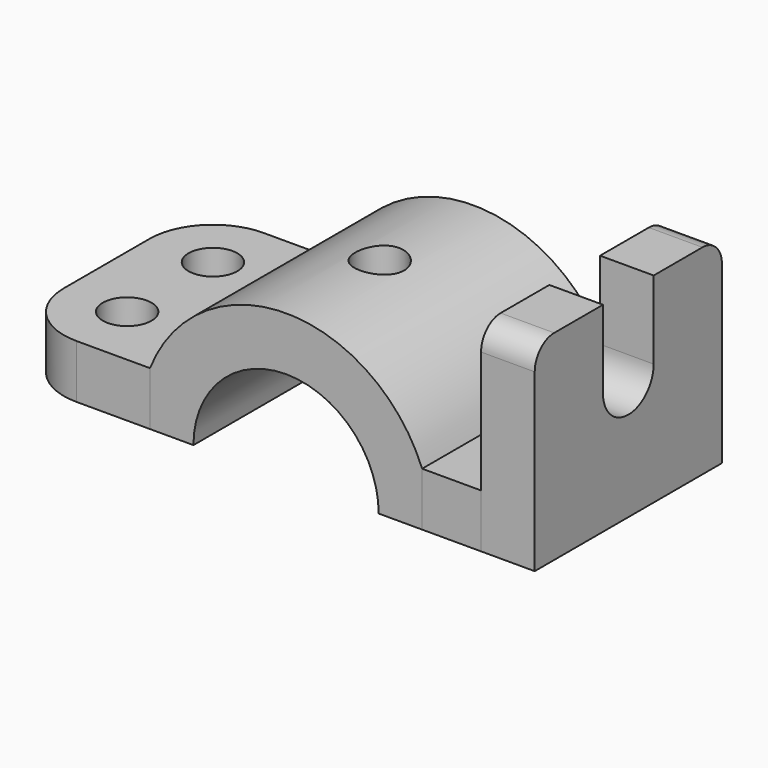
from build123d import *

# Parameters (mm, degrees)
F1_W      = 53.071484662
F1_H      = 1219.2
F3_DEPTH  = 279.4
F1_W_2    = 279.4
F1_H_2    = 444.5
F1_H_3    = 330.2
F4_DEPTH  = 1041.4
F1_W_3    = 1417.857030676
F1_R      = 127
F5_DEPTH  = 762
F6_DEPTH  = 279.4
F7_DEPTH  = 15240
F9_DEPTH  = 139700
F11_DEPTH = 279.4


with BuildPart() as f3:
    # F1 (on Top) → F3 (new body)
    with BuildSketch(Plane.XY):
        Polygon((914.4, 165.1), (914.4, 609.6), (660.4, 609.6), (660.4, -609.6), (914.4, -609.6), (914.4, -165.1), align=None)
        with Locations((633.864257669, 0)):
            Rectangle(F1_W, F1_H)
    extrude(amount=F3_DEPTH)


with BuildPart() as f4:
    # F1 (on Top) → F4 (new body)
    with BuildSketch(Plane.XY):
        with Locations((1054.1, 387.35)):
            Rectangle(F1_W_2, F1_H_2)
        with Locations((1054.1, 0)):
            Rectangle(F1_W_2, F1_H_3)
        with Locations((1054.1, -387.35)):
            Rectangle(F1_W_2, F1_H_2)
    extrude(amount=F4_DEPTH)

    # F10 (on offset) → F11 (cut)
    with BuildSketch(Plane.YZ.offset(1193.8)):
        with BuildLine():
            Line((-609.6, 1041.4), (-609.6, 914.4))
            ThreePointArc((-609.6, 914.4), (-572.4025612107, 1004.2025612107), (-482.6, 1041.4))
            Line((-482.6, 1041.4), (-609.6, 1041.4))
        make_face()
        with BuildLine():
            ThreePointArc((482.6, 1041.4), (572.4025612107, 1004.2025612107), (609.6, 914.4))
            Line((609.6, 914.4), (609.6, 1041.4))
            Line((609.6, 1041.4), (482.6, 1041.4))
        make_face()
        with BuildLine():
            Line((165.1, 1041.4), (-165.1, 1041.4))
            Line((-165.1, 1041.4), (-165.1, 635))
            ThreePointArc((-165.1, 635), (0, 469.9), (165.1, 635))
            Line((165.1, 635), (165.1, 1041.4))
        make_face()
    extrude(amount=-F11_DEPTH, mode=Mode.SUBTRACT)


with BuildPart() as f5:
    # F1 (on Top) → F5 (new body)
    with BuildSketch(Plane.XY):
        with Locations((-101.6, 0)):
            Rectangle(F1_W_3, F1_H)
        with Locations((-101.6, 0)):
            Circle(F1_R, mode=Mode.SUBTRACT)
    extrude(amount=F5_DEPTH)

    # F2 (on Front) → F7 (cut, symmetric)
    with BuildSketch(Plane.XZ):
        with BuildLine():
            Line((-101.6, 0), (381, 0))
            ThreePointArc((381, 0), (239.6497326006, 341.2497326006), (-101.6, 482.6))
            Line((-101.6, 482.6), (-101.6, 0))
        make_face()
        with BuildLine():
            Line((-101.6, 0), (-101.6, 482.6))
            ThreePointArc((-101.6, 482.6), (-442.8497326006, 341.2497326006), (-584.2, 0))
            Line((-584.2, 0), (-101.6, 0))
        make_face()
        with BuildLine():
            ThreePointArc((-584.2, 0), (-101.6, -482.6), (381, 0))
            Line((381, 0), (-101.6, 0))
            Line((-101.6, 0), (-584.2, 0))
        make_face()
    extrude(amount=F7_DEPTH, both=True, mode=Mode.SUBTRACT)

    # F8 (on Front) → F9 (cut, symmetric)
    with BuildSketch(Plane.XZ):
        with BuildLine():
            ThreePointArc((-810.528515338, 279.4), (-530.4013543659, 629.8995144889), (-101.6000044108, 761.9999999077))
            Line((-101.6000044108, 762), (-810.528515338, 762))
            Line((-810.528515338, 762), (-810.528515338, 279.4))
        make_face()
        with BuildLine():
            ThreePointArc((-101.6000044108, 761.9999999077), (327.2013507198, 629.8995169709), (607.328515338, 279.4))
            Line((607.328515338, 279.4), (607.328515338, 762))
            Line((607.328515338, 762), (-101.6000044108, 762))
        make_face()
    extrude(amount=F9_DEPTH, both=True, mode=Mode.SUBTRACT)


with BuildPart() as f6:
    # F1 (on Top) → F6 (new body)
    with BuildSketch(Plane.XY):
        with BuildLine():
            Line((-810.528515338, -609.6), (-810.528515338, 609.6))
            Line((-810.528515338, 609.6), (-1193.8, 609.6))
            ThreePointArc((-1193.8, 609.6), (-1427.2866591478, 512.8866591478), (-1524, 279.4))
            Line((-1524, 279.4), (-1524, -279.4))
            ThreePointArc((-1524, -279.4), (-1427.2866591478, -512.8866591478), (-1193.8, -609.6))
            Line((-1193.8, -609.6), (-810.528515338, -609.6))
        make_face()
        with Locations((-1193.8, -279.4)):
            Circle(F1_R, mode=Mode.SUBTRACT)
        with Locations((-1193.8, 279.4)):
            Circle(F1_R, mode=Mode.SUBTRACT)
    extrude(amount=F6_DEPTH)


solid = Compound([f3.part, f4.part, f5.part, f6.part])
